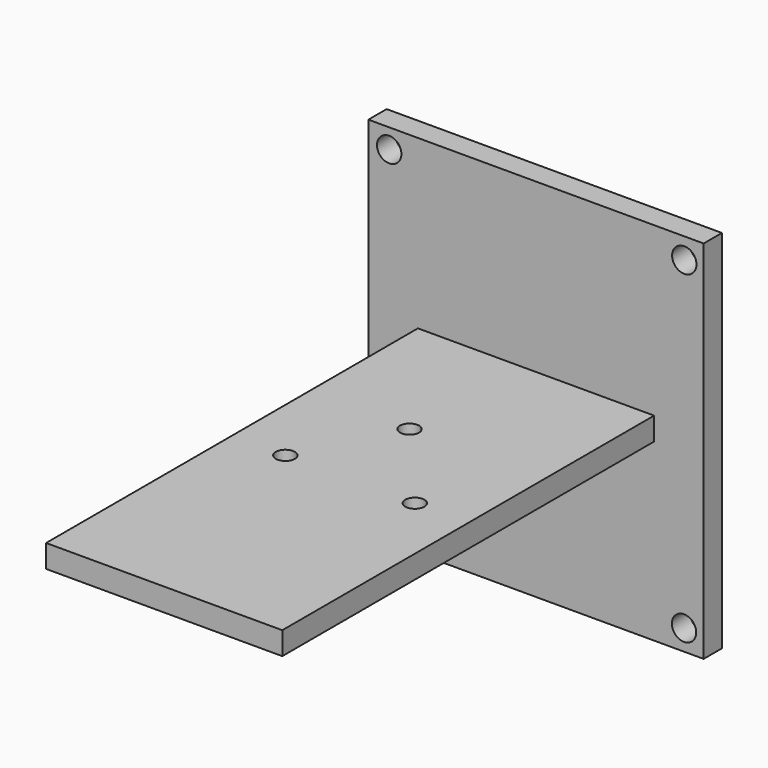
from build123d import *

# Parameters (mm, degrees)
SKETCH_R        = 1.25
PAD_DEPTH       = 3
SKETCH002_W     = 44
SKETCH002_H     = 48
PAD001_DEPTH    = 3
SKETCH006_R     = 1.6
POCKET001_DEPTH = 3
SKETCH007_R     = 3.25
PAD004_DEPTH    = 2
SKETCH008_R     = 1.25
POCKET002_DEPTH = 5


with BuildPart() as part:
    # Sketch (on Face1 of Binder) → Pad (new body)
    with BuildSketch(Plane(origin=(0, 0, 0), x_dir=(1, 0, 0), z_dir=(0, 0, -1))):
        Polygon((-15.5, 28.5), (-15.5, -28.5), (-15.5, -30.5), (15.5, -30.5), (15.5, -28.5), (15.5, 28.5), (15.5, 30.5), (-15.5, 30.5), align=None)
        with Locations((-8.5, 0)):
            Circle(SKETCH_R, mode=Mode.SUBTRACT)
        with Locations((8.5, 0)):
            Circle(SKETCH_R, mode=Mode.SUBTRACT)
    extrude(amount=PAD_DEPTH)

    # Sketch002 (on Face1 of Pad) → Pad001 (join)
    with BuildSketch(Plane(origin=(0, 30.5, 0), x_dir=(-1, 0, 0), z_dir=(0, 1, 0))):
        with Locations((0, -2)):
            Rectangle(SKETCH002_W, SKETCH002_H)
    extrude(amount=PAD001_DEPTH)

    # Sketch006 (on Face3 of Pad001) → Pocket001 (cut)
    with BuildSketch(Plane.XZ.offset(-30.5)):
        with Locations((-19.271234, 19.432414)):
            Circle(SKETCH006_R)
        with Locations((19.462404, 19.260412)):
            Circle(SKETCH006_R)
        with Locations((19.428404, -23.271234)):
            Circle(SKETCH006_R)
        with Locations((-19.271234, -23.428404)):
            Circle(SKETCH006_R)
    extrude(amount=-POCKET001_DEPTH, mode=Mode.SUBTRACT)

    # Sketch007 (on Face8 of Pocket001) → Pad004 (join)
    with BuildSketch(Plane(origin=(0, 0, -3), x_dir=(1, 0, 0), z_dir=(0, 0, -1))):
        with Locations((-2.2, -12.5)):
            Circle(SKETCH007_R)
    extrude(amount=PAD004_DEPTH)

    # Sketch008 (on Face19 of Pad004) → Pocket002 (cut)
    with BuildSketch(Plane(origin=(0, 0, -5), x_dir=(1, 0, 0), z_dir=(0, 0, -1))):
        with Locations((-2.2, -12.5)):
            Circle(SKETCH008_R)
    extrude(amount=-POCKET002_DEPTH, mode=Mode.SUBTRACT)


solid = part.part
